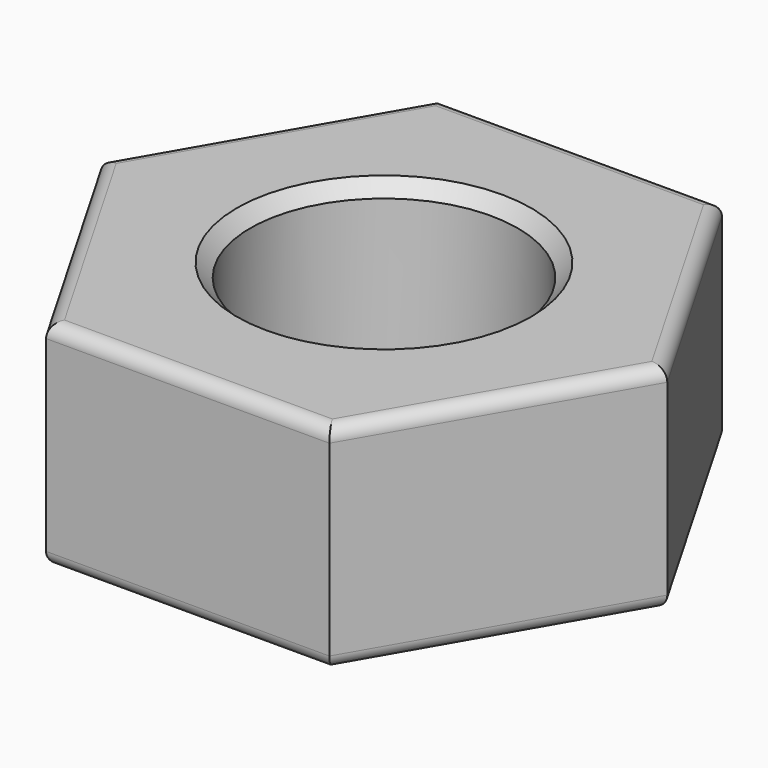
from build123d import *

# Parameters (mm, degrees)
F2_R     = 1.5
F3_DEPTH = 2.4
F4_R     = 0.15
F5_SIZE  = 0.15


with BuildPart() as f3:
    # F2 (on Top) → F3 (new body)
    with BuildSketch(Plane.XY):
        Polygon((1.5877132403, 2.75), (-1.5877132403, 2.75), (-3.1754264805, 0), (-1.5877132403, -2.75), (1.5877132403, -2.75), (3.1754264805, 0), align=None)
        Circle(F2_R, mode=Mode.SUBTRACT)
    extrude(amount=F3_DEPTH)

    # F4
    f4_edges = [f3.edges().sort_by_distance(p)[0] for p in [
        (2.38157, -1.375, 2.4),
        (2.38157, 1.375, 2.4),
        (0, 2.75, 2.4),
        (-2.38157, 1.375, 2.4),
        (-2.38157, -1.375, 2.4),
        (0, -2.75, 2.4),
        (0, -2.75, 0),
        (2.38157, -1.375, 0),
        (-2.38157, -1.375, 0),
        (-2.38157, 1.375, 0),
        (0, 2.75, 0),
        (2.38157, 1.375, 0),
    ]]
    fillet(f4_edges, radius=F4_R)

    # F5
    f5_edges = [f3.edges().sort_by_distance(p)[0] for p in [
        (-1.5, 0, 2.4),
        (-1.5, 0, 0),
    ]]
    chamfer(f5_edges, length=F5_SIZE)


solid = f3.part
